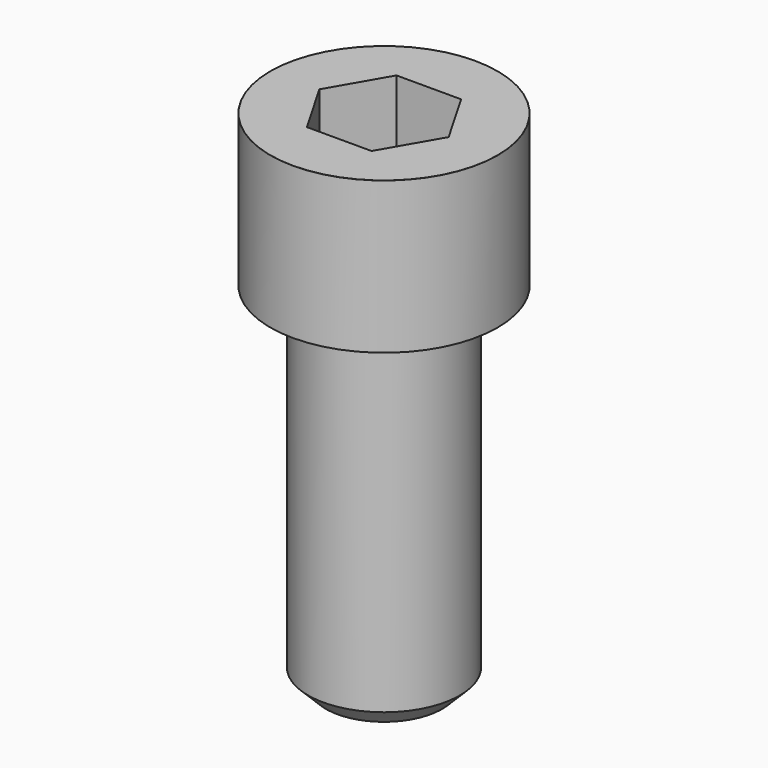
from build123d import *

# Parameters (mm, degrees)
POCKET_DEPTH = 22.15


with BuildPart() as part:
    # Sketch → Revolve (revolve)
    with BuildSketch(Plane.YZ):
        with BuildLine():
            Line((14.999, 0), (22.5, 0))
            Line((22.5, 0), (22.5, 29.97229))
            ThreePointArc((22.5, 29.97229), (22.491884, 29.991884), (22.47229, 30))
            Line((22.47229, 30), (0, 30))
            Line((0, -70), (0, 30))
            Line((11.5, -70), (0, -70))
            Line((15, -66.5), (11.5, -70))
            Line((15, -0.2), (15, -66.5))
            Line((14.999, 0), (15, -0.2))
        make_face()
    revolve(axis=Axis((0, 0, 0), (0, 0, 1)))

    # Sketch001 → Pocket (cut)
    with BuildSketch(Plane.XY.offset(30)):
        Polygon((12.788308, 0), (6.394154, 11.075), (-6.394154, 11.075), (-12.788308, 0), (-6.394154, -11.075), (6.394154, -11.075), align=None)
    extrude(amount=-POCKET_DEPTH, mode=Mode.SUBTRACT)


solid = part.part
